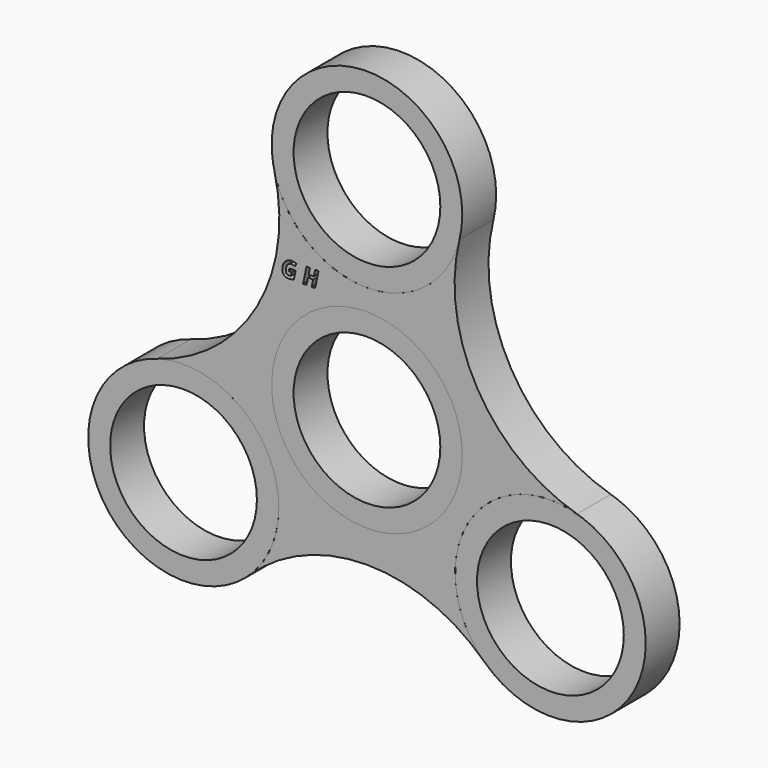
from build123d import *

# Parameters (mm, degrees)
F0_R     = 14.2875
F0_R_2   = 10.9982
F3_DEPTH = 6.35
F1_R     = 14.2875
F1_R_2   = 10.9982
F2_R     = 14.2875


with BuildPart() as f3:
    # F0 (on Front) → F3 (new body)
    with BuildSketch(Plane.XZ):
        with Locations((0, 31.75)):
            Circle(F0_R)
        with Locations((0, 31.75)):
            Circle(F0_R_2, mode=Mode.SUBTRACT)
    extrude(amount=F3_DEPTH)


with BuildPart() as f3b:
    # F0 (on Front) → F3, piece 2 (new body)
    with BuildSketch(Plane.XZ):
        Circle(F0_R)
        Circle(F0_R_2, mode=Mode.SUBTRACT)
    extrude(amount=F3_DEPTH)


with BuildPart() as f3c:
    # F1 (on Front) → F3, piece 3 (new body)
    with BuildSketch(Plane.XZ):
        with Locations((-27.4963065702, -15.875)):
            Circle(F1_R)
        with Locations((-27.4963065702, -15.875)):
            Circle(F1_R_2, mode=Mode.SUBTRACT)
    extrude(amount=F3_DEPTH)


with BuildPart() as f3d:
    # F1 (on Front) → F3, piece 4 (new body)
    with BuildSketch(Plane.XZ):
        with Locations((27.4963065702, -15.875)):
            Circle(F1_R)
        with Locations((27.4963065702, -15.875)):
            Circle(F1_R_2, mode=Mode.SUBTRACT)
    extrude(amount=F3_DEPTH)


with BuildPart() as f3e:
    # F2 (on Front) → F3, piece 5 (new body)
    with BuildSketch(Plane.XZ):
        with BuildLine():
            ThreePointArc((-31.4695122777, -2.1510686152), (-18.912441482, -4.4535326513), (-13.2088065702, -15.875))
            ThreePointArc((-13.2088065702, -15.875), (-14.3517276668, -21.4743483284), (-17.5976362049, -26.1778627696))
            ThreePointArc((-17.5976362049, -26.1778627696), (0, -19.094063249), (17.5976362049, -26.1778627696))
            ThreePointArc((17.5976362049, -26.1778627696), (15.1229686136, -8.73125), (31.4695122777, -2.1510686152))
            ThreePointArc((31.4695122777, -2.1510686152), (16.5359438351, 9.5470316245), (13.8718760728, 28.3289313848))
            ThreePointArc((13.8718760728, 28.3289313848), (0, 17.4625), (-13.8718760728, 28.3289313848))
            ThreePointArc((-13.8718760728, 28.3289313848), (-16.5359438351, 9.5470316245), (-31.4695122777, -2.1510686152))
        make_face()
        Circle(F2_R, mode=Mode.SUBTRACT)
        with BuildLine():
            Line((-11.7253271455, 15.8104161092), (-11.6324328119, 16.2387916935))
            Line((-11.6324328119, 16.2387916935), (-10.6981812278, 16.2387916935))
            Line((-10.6981812278, 16.2387916935), (-10.967309383, 14.9743671063))
            add(Edge.make_bspline(
                [(-10.967309383, 14.9743671063), (-11.1891941342, 14.8984591651), (-11.3792293996, 14.8708562774)],
                knots=[0, 0, 0, 1, 1, 1], degree=2))
            add(Edge.make_bspline(
                [(-11.3792293996, 14.8708562774), (-11.569264665, 14.8432533897), (-11.7815945705, 14.8432533897)],
                knots=[0, 0, 0, 1, 1, 1], degree=2))
            add(Edge.make_bspline(
                [(-11.7815945705, 14.8432533897), (-12.2110318043, 14.8432533897), (-12.4451255251, 15.0871673686)],
                knots=[0, 0, 0, 1, 1, 1], degree=2))
            add(Edge.make_bspline(
                [(-12.4451255251, 15.0871673686), (-12.6792192459, 15.3310813475), (-12.6792192459, 15.7875906443)],
                knots=[0, 0, 0, 1, 1, 1], degree=2))
            add(Edge.make_bspline(
                [(-12.6792192459, 15.7875906443), (-12.6792192459, 16.2318909715), (-12.5016583625, 16.5909939242)],
                knots=[0, 0, 0, 1, 1, 1], degree=2))
            add(Edge.make_bspline(
                [(-12.5016583625, 16.5909939242), (-12.324097479, 16.9500968768), (-12.0021522598, 17.1451749775)],
                knots=[0, 0, 0, 1, 1, 1], degree=2))
            add(Edge.make_bspline(
                [(-12.0021522598, 17.1451749775), (-11.6802070406, 17.3402530781), (-11.259263003, 17.3402530781)],
                knots=[0, 0, 0, 1, 1, 1], degree=2))
            add(Edge.make_bspline(
                [(-11.259263003, 17.3402530781), (-10.8972405142, 17.3402530781), (-10.5787456559, 17.1756974014)],
                knots=[0, 0, 0, 1, 1, 1], degree=2))
            Line((-10.5787456559, 17.1756974014), (-10.7698425709, 16.7595307867))
            add(Edge.make_bspline(
                [(-10.7698425709, 16.7595307867), (-10.8924630913, 16.8258838821), (-11.0150836117, 16.8656957394)],
                knots=[0, 0, 0, 1, 1, 1], degree=2))
            add(Edge.make_bspline(
                [(-11.0150836117, 16.8656957394), (-11.1377041321, 16.9055075967), (-11.2820884679, 16.9055075967)],
                knots=[0, 0, 0, 1, 1, 1], degree=2))
            add(Edge.make_bspline(
                [(-11.2820884679, 16.9055075967), (-11.5358227049, 16.9055075967), (-11.7359436408, 16.7677585705)],
                knots=[0, 0, 0, 1, 1, 1], degree=2))
            add(Edge.make_bspline(
                [(-11.7359436408, 16.7677585705), (-11.9360645767, 16.6300095443), (-12.0496610762, 16.3754790701)],
                knots=[0, 0, 0, 1, 1, 1], degree=2))
            add(Edge.make_bspline(
                [(-12.0496610762, 16.3754790701), (-12.1632575756, 16.1209485959), (-12.1632575756, 15.8274025016)],
                knots=[0, 0, 0, 1, 1, 1], degree=2))
            add(Edge.make_bspline(
                [(-12.1632575756, 15.8274025016), (-12.1632575756, 15.5418187787), (-12.0430257666, 15.4083163507)],
                knots=[0, 0, 0, 1, 1, 1], degree=2))
            add(Edge.make_bspline(
                [(-12.0430257666, 15.4083163507), (-11.9227939576, 15.2748139226), (-11.6738371435, 15.2748139226)],
                knots=[0, 0, 0, 1, 1, 1], degree=2))
            add(Edge.make_bspline(
                [(-11.6738371435, 15.2748139226), (-11.5475008497, 15.2748139226), (-11.3919691939, 15.3146257799)],
                knots=[0, 0, 0, 1, 1, 1], degree=2))
            Line((-11.3919691939, 15.3146257799), (-11.2820884679, 15.8104161092))
            Line((-11.2820884679, 15.8104161092), (-11.7253271455, 15.8104161092))
        make_face(mode=Mode.SUBTRACT)
        Polygon((-7.2605600581, 17.3020336952), (-7.7733367798, 14.8766953498), (-8.2808052539, 14.8766953498), (-8.0589205027, 15.9234817838), (-8.8397637301, 15.9234817838), (-9.0621793061, 14.8766953498), (-9.5680553059, 14.8766953498), (-9.0558094089, 17.3020336952), (-8.54781011, 17.3020336952), (-8.7489926955, 16.3513265434), (-7.9676186433, 16.3513265434), (-7.7669668826, 17.3020336952), align=None, mode=Mode.SUBTRACT)
    extrude(amount=F3_DEPTH)


solid = Compound([f3.part, f3b.part, f3c.part, f3d.part, f3e.part])
